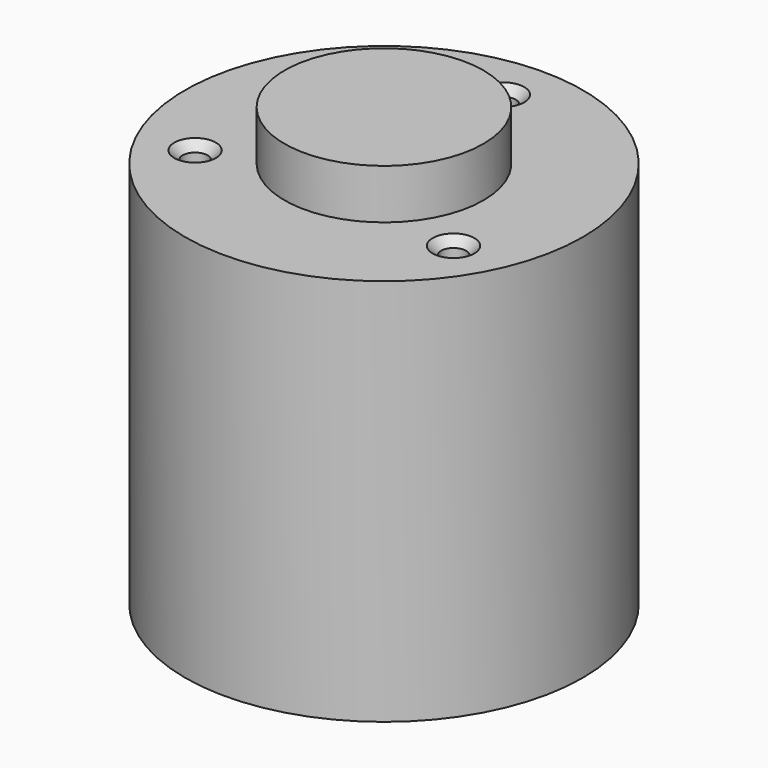
from build123d import *

# Parameters (mm, degrees)
F0_R           = 20
F1_DEPTH       = 39
F2_R           = 10
F3_DEPTH       = 5
F5_D           = 2.5
F5_DEPTH       = 7
F5_CSINK_D     = 4.191
F5_CSINK_ANGLE = 90
F5_TIP         = 0.7510757738


with BuildPart() as f1:
    # F0 (on Top) → F1 (new body)
    with BuildSketch(Plane.XY):
        Circle(F0_R)
    extrude(amount=F1_DEPTH)

    # F2 (on face) → F3 (join)
    with BuildSketch(Plane.XY.offset(39)):
        Circle(F2_R)
    extrude(amount=F3_DEPTH)

    # F5
    with Locations(Plane.XY.offset(39)):
        with Locations((-12.9903810568, -7.5), (12.9903810568, -7.5), (0, 15)):
            CounterSinkHole(F5_D / 2, F5_CSINK_D / 2, depth=F5_DEPTH, counter_sink_angle=F5_CSINK_ANGLE)
            with Locations((0, 0, -(F5_DEPTH + F5_TIP / 2))):  # 118° drill point
                Cone(0, F5_D / 2, F5_TIP, mode=Mode.SUBTRACT)


solid = f1.part
